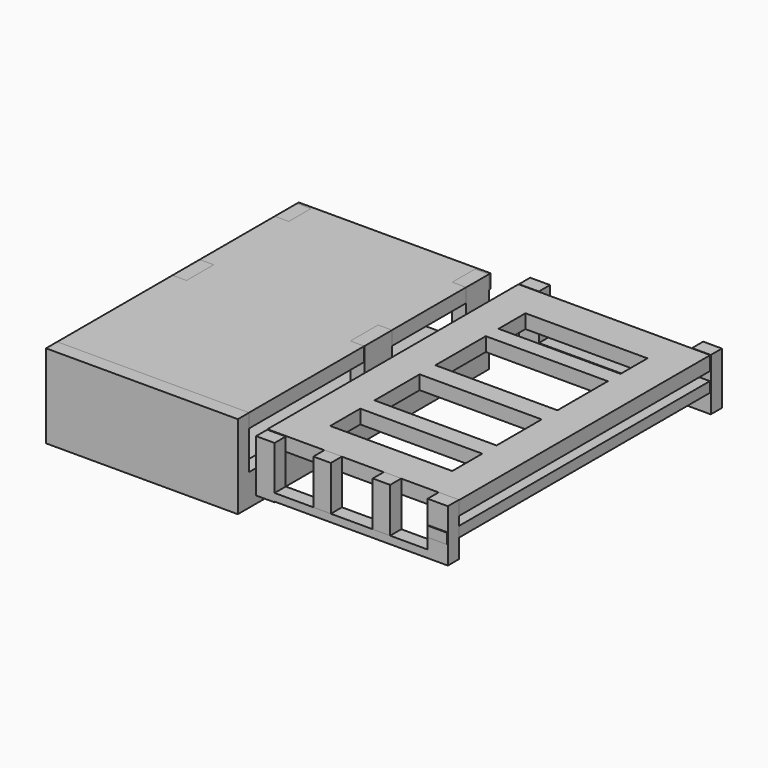
from build123d import *

# Parameters (mm, degrees)
F0_W      = 69.85
F0_H      = 114.3
F1_DEPTH  = 5.08
F3_W      = 69.85
F3_H      = 114.3
F4_DEPTH  = 6.35
F7_W      = 12.7
F7_H      = 12.7
F7_W_2    = 44.45
F7_H_2    = 5.8184303343
F7_H_3    = 7.1874738205
F7_H_4    = 6.5029524267
F8_DEPTH  = 5.08
F9_W      = 6.7361761562
F9_H      = 16.0402691672
F9_H_2    = 2.7664669489
F9_W_2    = 55.7594845613
F9_H_3    = 0.2432638838
F9_W_3    = 7.3543392825
F9_H_4    = 16.2835330511
F10_DEPTH = 5.08
F11_W     = 7.239518579
F11_H     = 16.51
F11_H_2   = 2.54
F11_W_2   = 55.786697957
F11_W_3   = 6.823783464
F12_DEPTH = 5.08
F13_W     = 5.08
F13_H     = 5.08
F13_H_2   = 104.14
F13_W_2   = 59.69
F14_DEPTH = 5.08
F15_W     = 69.85
F15_H     = 5.1094701806
F15_W_2   = 5.08
F15_H_2   = 12.3887229711
F15_H_3   = 12.630738318
F15_H_4   = 10.1458194217
F15_H_5   = 10.3169480821
F16_DEPTH = 19.05
F18_W     = 125.0962689519
F18_H     = 3.7648670841
F19_DEPTH = 7.112
F20_W     = 6.35
F20_H     = 16.2835330511
F21_DEPTH = 5.08


with BuildPart() as f1:
    # F0 (on Top) → F1 (new body)
    with BuildSketch(Plane.XY):
        with Locations((-80.3107898682, 0.339157423)):
            Rectangle(F0_W, F0_H)
    extrude(amount=F1_DEPTH)


with BuildPart() as f4:
    # F3 (on offset) → F4 (new body)
    with BuildSketch(Plane.XY.offset(-25.4)):
        with Locations((-80.2773684263, -0.4551621059)):
            Rectangle(F3_W, F3_H)
    extrude(amount=F4_DEPTH)

    # F13 (on face) → F14 (join)
    with BuildSketch(Plane.XY.offset(-19.05)):
        with Locations((-112.6623684263, 54.1548378941)):
            Rectangle(F13_W, F13_H)
        with Locations((-112.6623684263, -55.0651621059)):
            Rectangle(F13_W, F13_H)
        with Locations((-47.8923684263, 54.1548378941)):
            Rectangle(F13_W, F13_H)
        with Locations((-47.8923684263, -55.0651621059)):
            Rectangle(F13_W, F13_H)
        with Locations((-112.6623684263, -0.4551621059)):
            Rectangle(F13_W, F13_H_2)
        with Locations((-47.8923684263, -0.4551621059)):
            Rectangle(F13_W, F13_H_2)
        with Locations((-80.2773684263, -55.0651621059)):
            Rectangle(F13_W_2, F13_H)
    extrude(amount=F14_DEPTH)

    # F15 (on face) → F16 (join)
    with BuildSketch(Plane.XY.offset(-13.97)):
        with Locations((-80.2773684263, -55.0504270156)):
            Rectangle(F15_W, F15_H)
        with Locations((-112.6623684263, 6.1943614855)):
            Rectangle(F15_W_2, F15_H_2)
        with Locations((-47.8923684263, 6.315369159)):
            Rectangle(F15_W_2, F15_H_3)
        with Locations((-112.6623684263, 51.6219281833)):
            Rectangle(F15_W_2, F15_H_4)
        with Locations((-47.8923684263, 51.536363853)):
            Rectangle(F15_W_2, F15_H_5)
    extrude(amount=F16_DEPTH)


with BuildPart() as f8:
    # F7 (on Top) → F8 (new body)
    with BuildSketch(Plane.XY):
        with Locations((28.575, -50.8)):
            Rectangle(F7_W, F7_H)
        with Locations((0, -50.8)):
            Rectangle(F7_W_2, F7_H)
        Polygon((22.225, -44.45), (34.925, -44.45), (34.925, 44.45), (22.225, 44.45), (22.225, 32.2049371898), (22.225, 26.3865068555), (22.225, 3.4550426062), (22.225, -3.7324312143), (22.225, -24.2680702358), (22.225, -30.7710226625), align=None)
        with Locations((-28.575, -50.8)):
            Rectangle(F7_W, F7_H)
        with Locations((28.575, 50.8)):
            Rectangle(F7_W, F7_H)
        Polygon((-34.925, -44.45), (-22.225, -44.45), (-22.225, -30.7710226625), (-22.225, -24.2680702358), (-22.225, -3.7324312143), (-22.225, 3.4550426062), (-22.225, 26.3865068555), (-22.225, 32.2049371898), (-22.225, 44.45), (-34.925, 44.45), align=None)
        with Locations((0, 50.8)):
            Rectangle(F7_W_2, F7_H)
        with Locations((-28.575, 50.8)):
            Rectangle(F7_W, F7_H)
        with Locations((0, 29.2957220227)):
            Rectangle(F7_W_2, F7_H_2)
        with Locations((0, -0.138694304)):
            Rectangle(F7_W_2, F7_H_3)
        with Locations((0, -27.5195464492)):
            Rectangle(F7_W_2, F7_H_4)
    extrude(amount=F8_DEPTH)

    # F9 (on offset) → F10 (join)
    with BuildSketch(Plane.XZ.offset(57.15)):
        with Locations((-31.632169116, -3.1286035073)):
            Rectangle(F9_W, F9_H)
        with Locations((-31.632169116, -12.5319715654)):
            Rectangle(F9_W, F9_H_2)
        with Locations((-0.3843387572, -12.5319715654)):
            Rectangle(F9_W_2, F9_H_2)
        with Locations((-31.632169116, -14.0368369818)):
            Rectangle(F9_W, F9_H_3)
        with Locations((31.1725731647, -12.5319715654)):
            Rectangle(F9_W_3, F9_H_2)
        with Locations((31.1725731647, -3.0069715654)):
            Rectangle(F9_W_3, F9_H_4)
    extrude(amount=F10_DEPTH)

    # F11 (on face) → F12 (join)
    with BuildSketch(Plane(origin=(0, 57.15, 0), x_dir=(-1, 0, 0), z_dir=(0, 1, 0))):
        with Locations((31.1089185799, -3.0657224204)):
            Rectangle(F11_W, F11_H)
        with Locations((31.1089185799, -12.5907224204)):
            Rectangle(F11_W, F11_H_2)
        with Locations((-0.404189688, -12.5907224204)):
            Rectangle(F11_W_2, F11_H_2)
        with Locations((-31.7094303986, -3.0657224204)):
            Rectangle(F11_W_3, F11_H)
        with Locations((-31.7094303986, -12.5907224204)):
            Rectangle(F11_W_3, F11_H_2)
    extrude(amount=F12_DEPTH)

    # F18 (on offset) → F19 (join)
    with BuildSketch(Plane.YZ.offset(27.686)):
        with Locations((0.026088208, -5.1796053303)):
            Rectangle(F18_W, F18_H)
    extrude(amount=F19_DEPTH)


with BuildPart() as f21:
    # F20 (on face) → F21 (new body)
    with BuildSketch(Plane.XZ.offset(62.23)):
        with Locations((-10.9570405189, -3.0069715654)):
            Rectangle(F20_W, F20_H)
    extrude(amount=-F21_DEPTH)


with BuildPart() as f21b:
    # F20 (on face) → F21, piece 2 (new body)
    with BuildSketch(Plane.XZ.offset(62.23)):
        with Locations((10.668, -3.0069715654)):
            Rectangle(F20_W, F20_H)
    extrude(amount=-F21_DEPTH)


solid = Compound([f1.part, f4.part, f8.part, f21.part, f21b.part])
